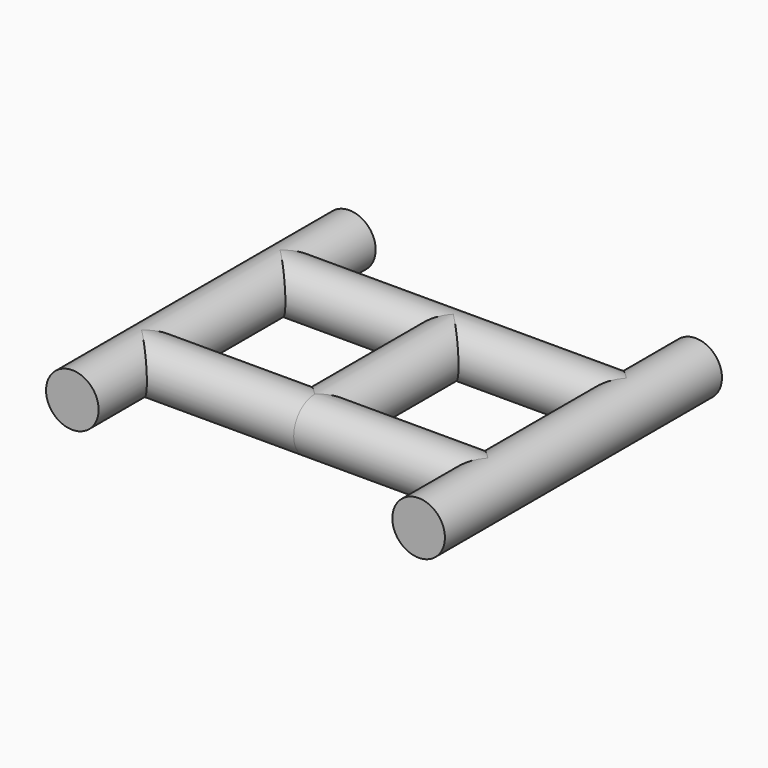
from build123d import *

# Parameters (mm, degrees)
F0_R     = 30
F1_DEPTH = 197.5
F2_DEPTH = 98.75
F5_R     = 30
F6_DEPTH = 197.5


with BuildPart() as f1:
    # F0 (on Front) → F1 (new body, symmetric)
    with BuildSketch(Plane.XZ):
        Circle(F0_R)
    extrude(amount=F1_DEPTH, both=True)



with BuildPart() as f2:
    # F0 (on Front) → F2 (new body, symmetric)
    with BuildSketch(Plane.XZ):
        with Locations((197.5, 0)):
            Circle(F0_R)
    extrude(amount=F2_DEPTH, both=True)


with BuildPart() as f4_1:
    # F4: instance of F1
    add(f1.part.mirror(Plane.YZ.offset(197.5)))


with BuildPart() as f1_1:
    add(f1.part)

    add(f2.part)  # F6 merges F2

    add(f4_1.part)  # F6 merges F4_1
    # F5 (on plane+point) → F6 (join, symmetric)
    with BuildSketch(Plane.YZ.offset(197.5)):
        with Locations((-98.75, 0)):
            Circle(F5_R)
        with Locations((98.75, 0)):
            Circle(F5_R)
    extrude(amount=F6_DEPTH, both=True)


solid = f1_1.part
